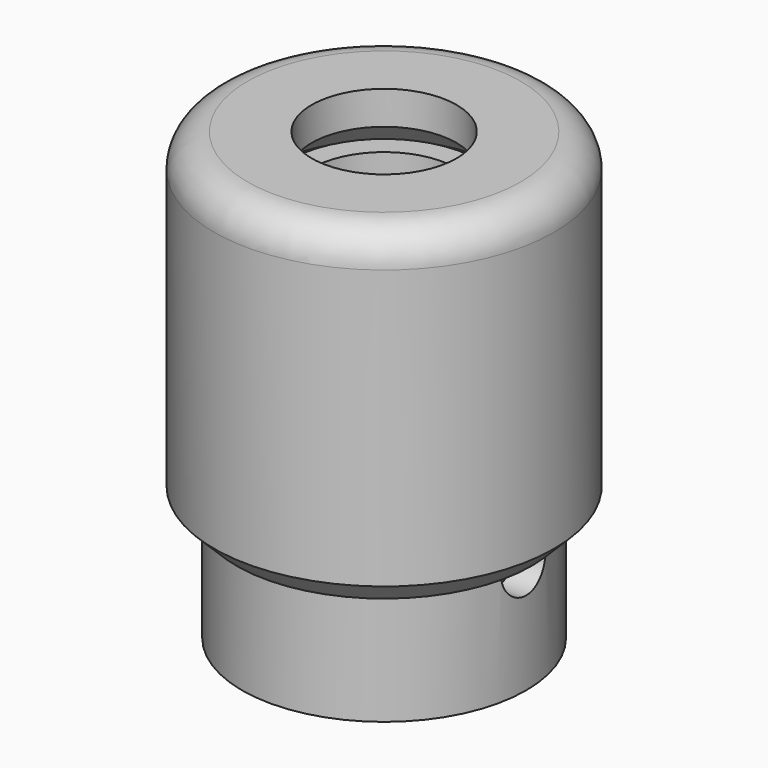
from build123d import *

# Parameters (mm, degrees)
SKETCH_R             = 15.25
PAD_DEPTH            = 30
SKETCH001_R          = 10.25
POCKET_DEPTH         = 27
SKETCH002_R          = 6.5
POCKET001_DEPTH      = 30.001
FILLET_R             = 3
CHAMFER_SIZE         = 3
CHAMFER001_SIZE      = 0.5
CHAMFER002_SIZE      = 2
SKETCH003_R          = 4
PAD001_DEPTH         = 3
SKETCH004_R          = 3
PAD002_DEPTH         = 3
FILLET001_R          = 0.5
CHAMFER003_SIZE      = 1
SKETCH005_R          = 10.25
PAD003_DEPTH         = 5
SKETCH006_R          = 8.5
PAD004_DEPTH         = 5
CHAMFER004_SIZE      = 1
SKETCH007_R          = 12.75
PAD005_DEPTH         = 10
SKETCH008_R          = 10.25
POCKET002_DEPTH      = 20.001
SKETCH009_R          = 2.5
POCKET003_DEPTH      = 12.751
POCKET003_DEPTH_BACK = -12.751
SKETCH010_R          = 8.5
PAD006_DEPTH         = 25
SKETCH011_R          = 6.5
POCKET004_DEPTH      = 25.001
SKETCH012_R          = 10.25
PAD007_DEPTH         = 5
SKETCH013_R          = 8.5
PAD008_DEPTH         = 5
POCKET005_DEPTH      = 8
SKETCH015_R          = 3.125
POCKET006_DEPTH      = 10.001
CHAMFER005_SIZE      = 1


with BuildPart() as obj1:
    # Sketch → Pad (new body)
    with BuildSketch(Plane.XY):
        Circle(SKETCH_R)
    extrude(amount=PAD_DEPTH)

    # Sketch001 (on Face2 of Pad) → Pocket (cut)
    with BuildSketch(Plane(origin=(0, 0, 0), x_dir=(1, 0, 0), z_dir=(0, 0, -1))):
        Circle(SKETCH001_R)
    extrude(amount=-POCKET_DEPTH, mode=Mode.SUBTRACT)

    # Sketch002 (on Face3 of Pocket) → Pocket001 (cut, through all)
    with BuildSketch(Plane.XY.offset(30)):
        Circle(SKETCH002_R)
    extrude(amount=-POCKET001_DEPTH, mode=Mode.SUBTRACT)

    # Fillet
    fillet_edges = [obj1.edges().sort_by_distance(p)[0] for p in [
        (-15.25, 0, 30),
    ]]
    fillet(fillet_edges, radius=FILLET_R)

    # Chamfer
    chamfer_edges = [obj1.edges().sort_by_distance(p)[0] for p in [
        (-10.25, 0, 27),
    ]]
    chamfer(chamfer_edges, length=CHAMFER_SIZE)

    # Chamfer001
    chamfer001_edges = [obj1.edges().sort_by_distance(p)[0] for p in [
        (-10.25, 0, 0),
    ]]
    chamfer(chamfer001_edges, length=CHAMFER001_SIZE)

    # Chamfer002
    chamfer002_edges = [obj1.edges().sort_by_distance(p)[0] for p in [
        (-15.25, 0, 0),
    ]]
    chamfer(chamfer002_edges, length=CHAMFER002_SIZE)


with BuildPart() as element_plug:
    # Sketch003 → Pad001 (new body)
    with BuildSketch(Plane.XY):
        Circle(SKETCH003_R)
    extrude(amount=PAD001_DEPTH)

    # Sketch004 (on Face3 of Pad001) → Pad002 (join)
    with BuildSketch(Plane.XY.offset(3)):
        Circle(SKETCH004_R)
    extrude(amount=PAD002_DEPTH)

    # Fillet001
    fillet001_edges = [element_plug.edges().sort_by_distance(p)[0] for p in [
        (-3, 0, 6),
    ]]
    fillet(fillet001_edges, radius=FILLET001_R)

    # Chamfer003
    chamfer003_edges = [element_plug.edges().sort_by_distance(p)[0] for p in [
        (-4, 0, 0),
    ]]
    chamfer(chamfer003_edges, length=CHAMFER003_SIZE)


with BuildPart() as front_cap:
    # Sketch005 → Pad003 (new body)
    with BuildSketch(Plane.XY):
        Circle(SKETCH005_R)
    extrude(amount=PAD003_DEPTH)

    # Sketch006 (on Face3 of Pad003) → Pad004 (join)
    with BuildSketch(Plane.XY.offset(5)):
        Circle(SKETCH006_R)
    extrude(amount=PAD004_DEPTH)

    # Chamfer004
    chamfer004_edges = [front_cap.edges().sort_by_distance(p)[0] for p in [
        (-8.5, 0, 10),
        (-10.25, 0, 0),
    ]]
    chamfer(chamfer004_edges, length=CHAMFER004_SIZE)


with BuildPart() as drill_guide:
    # Sketch007 → Pad005 (new body, symmetric)
    with BuildSketch(Plane.XY):
        Circle(SKETCH007_R)
    extrude(amount=PAD005_DEPTH, both=True)

    # Sketch008 (on Face3 of Pad005) → Pocket002 (cut, through all)
    with BuildSketch(Plane.XY.offset(10)):
        Circle(SKETCH008_R)
    extrude(amount=-POCKET002_DEPTH, mode=Mode.SUBTRACT)

    # Sketch009 → Pocket003 (cut, two sides)
    with BuildSketch(Plane.YZ) as pocket003_sk:
        Circle(SKETCH009_R)
    extrude(amount=-POCKET003_DEPTH, mode=Mode.SUBTRACT)
    extrude(pocket003_sk.sketch, amount=-POCKET003_DEPTH_BACK, mode=Mode.SUBTRACT)


with BuildPart() as choke_support:
    # Sketch010 → Pad006 (new body)
    with BuildSketch(Plane.XY):
        Circle(SKETCH010_R)
    extrude(amount=PAD006_DEPTH)

    # Sketch011 (on Face3 of Pad006) → Pocket004 (cut, through all)
    with BuildSketch(Plane.XY.offset(25)):
        Circle(SKETCH011_R)
    extrude(amount=-POCKET004_DEPTH, mode=Mode.SUBTRACT)


with BuildPart() as end_cap_sma:
    # Sketch012 → Pad007 (new body)
    with BuildSketch(Plane.XY):
        Circle(SKETCH012_R)
    extrude(amount=-PAD007_DEPTH)

    # Sketch013 (on Face2 of Pad007) → Pad008 (join)
    with BuildSketch(Plane.XY):
        Circle(SKETCH013_R)
    extrude(amount=PAD008_DEPTH)

    # Sketch014 (on DatumPlane) → Pocket005 (cut)
    with BuildSketch(Plane.XY.offset(5)):
        Polygon((0.018844, 4.749963), (-4.104166, 2.391301), (-4.12301, -2.358662), (-0.018844, -4.749963), (4.104166, -2.391301), (4.12301, 2.358662), align=None)
    extrude(amount=-POCKET005_DEPTH, mode=Mode.SUBTRACT)

    # Sketch015 (on Face3 of Pocket005) → Pocket006 (cut, through all)
    with BuildSketch(Plane(origin=(0, 0, -5), x_dir=(1, 0, 0), z_dir=(0, 0, -1))):
        Circle(SKETCH015_R)
    extrude(amount=-POCKET006_DEPTH, mode=Mode.SUBTRACT)

    # Chamfer005
    chamfer005_edges = [end_cap_sma.edges().sort_by_distance(p)[0] for p in [
        (-10.25, 0, -5),
        (-8.5, 0, 5),
    ]]
    chamfer(chamfer005_edges, length=CHAMFER005_SIZE)


solid = Compound([obj1.part, element_plug.part, front_cap.part, drill_guide.part, choke_support.part, end_cap_sma.part])
